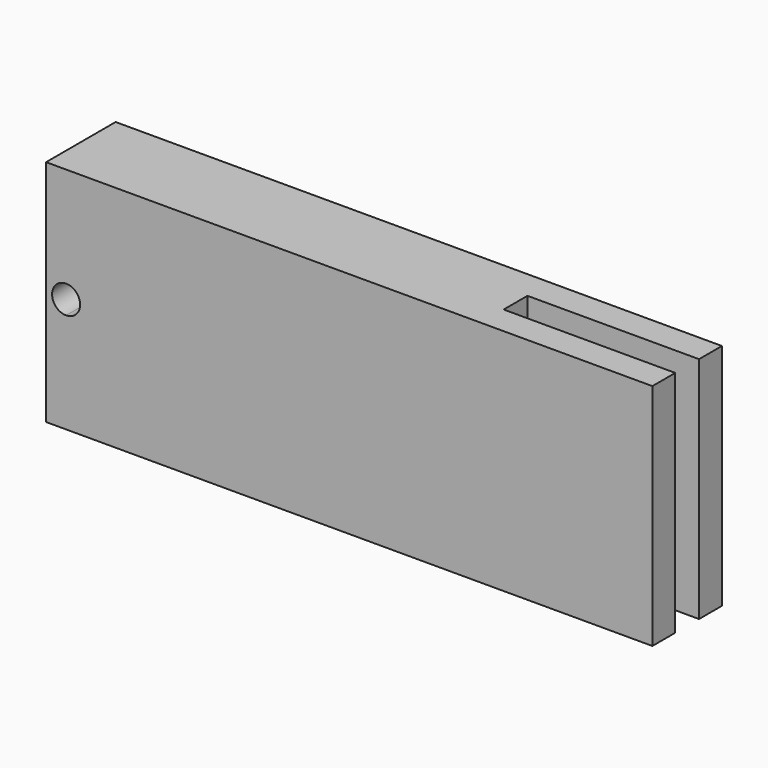
from build123d import *

# Parameters (mm, degrees)
F0_W     = 30
F0_H     = 5
F1_DEPTH = 40
F3_DEPTH = 25


with BuildPart() as f1:
    # F0 (on Top) → F1 (new body)
    with BuildSketch(Plane.XY):
        Polygon((0, 15.2), (0, 0), (76, 0), (76, 5), (76, 10.2), (76, 15.2), align=None)
        with Locations((91, 12.7)):
            Rectangle(F0_W, F0_H)
        with Locations((91, 2.5)):
            Rectangle(F0_W, F0_H)
    extrude(amount=F1_DEPTH)

    # F2 (on face) → F3 (cut)
    with BuildSketch(Plane.XZ):
        with BuildLine():
            ThreePointArc((5.95, 20), (5.2324116139, 21.7324116139), (3.5, 22.45))
            Line((3.5, 22.45), (3.5, 17.55))
            ThreePointArc((3.5, 17.55), (5.2324116139, 18.2675883861), (5.95, 20))
        make_face()
        with BuildLine():
            Line((3.5, 17.55), (3.5, 22.45))
            ThreePointArc((3.5, 22.45), (1.05, 20), (3.5, 17.55))
        make_face()
    extrude(amount=-F3_DEPTH, mode=Mode.SUBTRACT)


solid = f1.part
